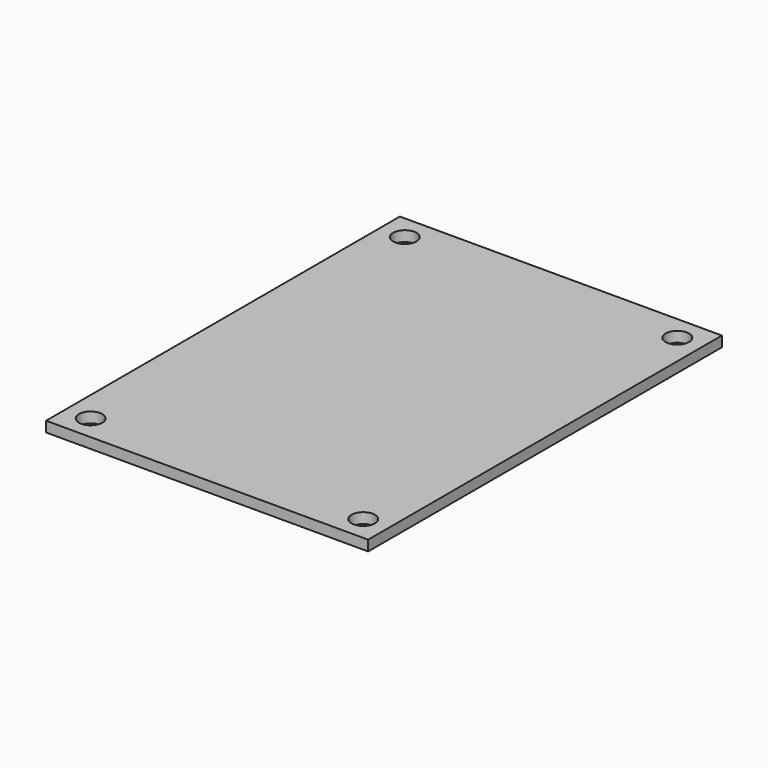
from build123d import *

# Parameters (mm, degrees)
F0_W     = 49.53
F0_H     = 68
F1_DEPTH = 1.6
F2_D     = 3.6


with BuildPart() as f1:
    # F0 (on Top) → F1 (new body)
    with BuildSketch(Plane.XY):
        with Locations((24.765, 34)):
            Rectangle(F0_W, F0_H)
    extrude(amount=F1_DEPTH)

    # F2 (through all)
    with Locations(Plane(origin=(0, 0, 0), x_dir=(1, 0, 0), z_dir=(0, 0, -1))):
        with Locations((3.81, -64.19), (45.72, -64.19), (45.72, -3.81), (3.81, -3.81)):
            Hole(F2_D / 2)


solid = f1.part
